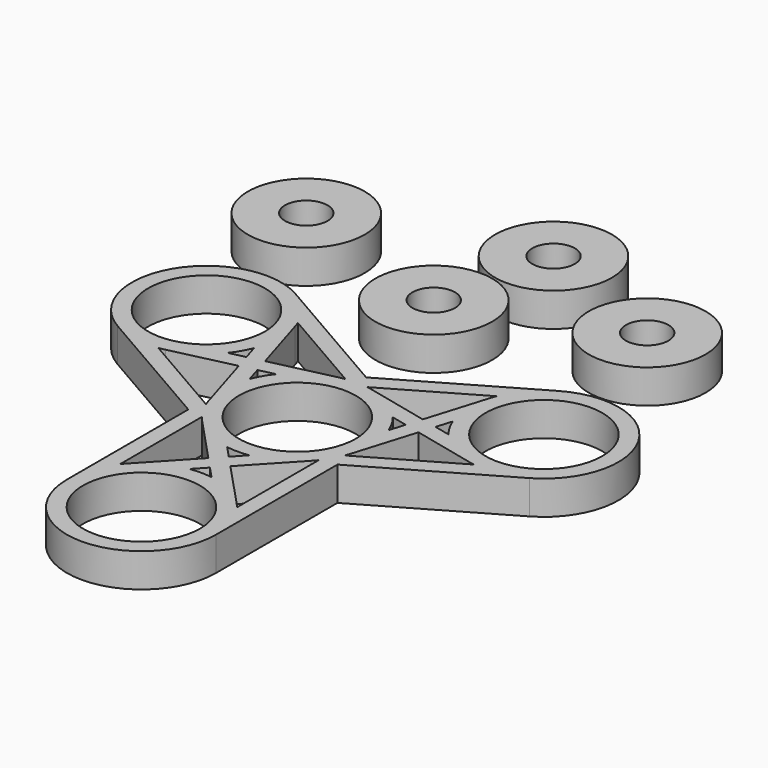
from build123d import *

# Parameters (mm, degrees)
F0_R     = 11
F0_R_2   = 4
F1_DEPTH = 6.35


with BuildPart() as f1:
    # F0 (on Top) → F1 (new body)
    with BuildSketch(Plane.XY):
        with BuildLine():
            Line((24.73325, 30.484239), (0, 16.20449))
            Line((0, 16.20449), (-24.73325, 30.484239))
            ThreePointArc((-24.73325, 30.484239), (-43.903368, 25.347621), (-38.76675, 6.177504))
            Line((-38.76675, 6.177504), (-14.0335, -8.102245))
            Line((-14.0335, -8.102245), (-14.0335, -36.661742))
            ThreePointArc((-14.0335, -36.661742), (0, -50.695242), (14.0335, -36.661742))
            Line((14.0335, -36.661742), (14.0335, -8.102245))
            Line((14.0335, -8.102245), (38.76675, 6.177504))
            ThreePointArc((38.76675, 6.177504), (43.903368, 25.347621), (24.73325, 30.484239))
        make_face()
        with BuildLine():
            Line((-2.076081, -18.330871), (-10.252641, -27.079338))
            ThreePointArc((-10.252641, -27.079338), (-10.635182, -27.505759), (-11, -27.947436))
            Line((-11, -27.947436), (-11, -8.714306))
            ThreePointArc((-11, -8.714306), (-10.635182, -9.155983), (-10.252641, -9.582404))
            Line((-10.252641, -9.582404), (-2.076081, -18.330871))
        make_face(mode=Mode.SUBTRACT)
        with BuildLine():
            Line((-16.91304, 7.367497), (-13.424926, -4.087846))
            ThreePointArc((-13.424926, -4.087846), (-13.246905, -4.632346), (-13.04681, -5.169127))
            Line((-13.04681, -5.169127), (-29.70319, 4.447439))
            ThreePointArc((-29.70319, 4.447439), (-29.138277, 4.542542), (-28.577715, 4.660621))
            Line((-28.577715, 4.660621), (-16.91304, 7.367497))
        make_face(mode=Mode.SUBTRACT)
        with BuildLine():
            Line((-17.798695, 10.276081), (-20.774701, 9.585477))
            ThreePointArc((-20.774701, 9.585477), (-19.596632, 11.314121), (-18.688617, 13.19868))
            Line((-18.688617, 13.19868), (-17.798695, 10.276081))
        make_face(mode=Mode.SUBTRACT)
        with BuildLine():
            Line((-13.061383, 5.132191), (-13.951305, 8.05479))
            Line((-13.951305, 8.05479), (-10.975299, 8.745394))
            ThreePointArc((-10.975299, 8.745394), (-12.153368, 7.01675), (-13.061383, 5.132191))
        make_face(mode=Mode.SUBTRACT)
        with Locations((0, -36.661742)):
            Circle(F0_R, mode=Mode.SUBTRACT)
        with BuildLine():
            ThreePointArc((2.086084, -22.784157), (0, -22.628242), (-2.086084, -22.784157))
            Line((-2.086084, -22.784157), (0, -20.552162))
            Line((0, -20.552162), (2.086084, -22.784157))
        make_face(mode=Mode.SUBTRACT)
        with BuildLine():
            Line((0, -16.10958), (-2.086084, -13.877585))
            ThreePointArc((-2.086084, -13.877585), (0, -14.0335), (2.086084, -13.877585))
            Line((2.086084, -13.877585), (0, -16.10958))
        make_face(mode=Mode.SUBTRACT)
        with BuildLine():
            Line((11, -8.714306), (11, -27.947436))
            ThreePointArc((11, -27.947436), (10.635182, -27.505759), (10.252641, -27.079338))
            Line((10.252641, -27.079338), (2.076081, -18.330871))
            Line((2.076081, -18.330871), (10.252641, -9.582404))
            ThreePointArc((10.252641, -9.582404), (10.635182, -9.155983), (11, -8.714306))
        make_face(mode=Mode.SUBTRACT)
        Circle(F0_R, mode=Mode.SUBTRACT)
        with BuildLine():
            Line((29.70319, 4.447439), (13.04681, -5.169127))
            ThreePointArc((13.04681, -5.169127), (13.246905, -4.632346), (13.424926, -4.087846))
            Line((13.424926, -4.087846), (16.91304, 7.367497))
            Line((16.91304, 7.367497), (28.577715, 4.660621))
            ThreePointArc((28.577715, 4.660621), (29.138277, 4.542542), (29.70319, 4.447439))
        make_face(mode=Mode.SUBTRACT)
        with BuildLine():
            Line((13.951305, 8.05479), (13.061383, 5.132191))
            ThreePointArc((13.061383, 5.132191), (12.153368, 7.01675), (10.975299, 8.745394))
            Line((10.975299, 8.745394), (13.951305, 8.05479))
        make_face(mode=Mode.SUBTRACT)
        with BuildLine():
            Line((17.798695, 10.276081), (18.688617, 13.19868))
            ThreePointArc((18.688617, 13.19868), (19.596632, 11.314121), (20.774701, 9.585477))
            Line((20.774701, 9.585477), (17.798695, 10.276081))
        make_face(mode=Mode.SUBTRACT)
        with Locations((-31.75, 18.330871)):
            Circle(F0_R, mode=Mode.SUBTRACT)
        with BuildLine():
            Line((-14.83696, 10.963374), (-18.325074, 22.418717))
            ThreePointArc((-18.325074, 22.418717), (-18.503095, 22.963217), (-18.70319, 23.499998))
            Line((-18.70319, 23.499998), (-2.04681, 13.883432))
            ThreePointArc((-2.04681, 13.883432), (-2.611723, 13.788329), (-3.172285, 13.67025))
            Line((-3.172285, 13.67025), (-14.83696, 10.963374))
        make_face(mode=Mode.SUBTRACT)
        with BuildLine():
            ThreePointArc((3.172285, 13.67025), (2.611723, 13.788329), (2.04681, 13.883432))
            Line((2.04681, 13.883432), (18.70319, 23.499998))
            ThreePointArc((18.70319, 23.499998), (18.503095, 22.963217), (18.325074, 22.418717))
            Line((18.325074, 22.418717), (14.83696, 10.963374))
            Line((14.83696, 10.963374), (3.172285, 13.67025))
        make_face(mode=Mode.SUBTRACT)
        with Locations((31.75, 18.330871)):
            Circle(F0_R, mode=Mode.SUBTRACT)
        with Locations((-39.543405, 51.544905)):
            Circle(F0_R)
        with Locations((-39.543405, 51.544905)):
            Circle(F0_R_2, mode=Mode.SUBTRACT)
        with Locations((-7.616933, 41.619973)):
            Circle(F0_R)
        with Locations((-7.616933, 41.619973)):
            Circle(F0_R_2, mode=Mode.SUBTRACT)
        with Locations((-2.615711, 63.546404)):
            Circle(F0_R)
        with Locations((-2.615711, 63.546404)):
            Circle(F0_R_2, mode=Mode.SUBTRACT)
        with Locations((23.389939, 53.075364)):
            Circle(F0_R)
        with Locations((23.389939, 53.075364)):
            Circle(F0_R_2, mode=Mode.SUBTRACT)
    extrude(amount=F1_DEPTH)


solid = f1.part
